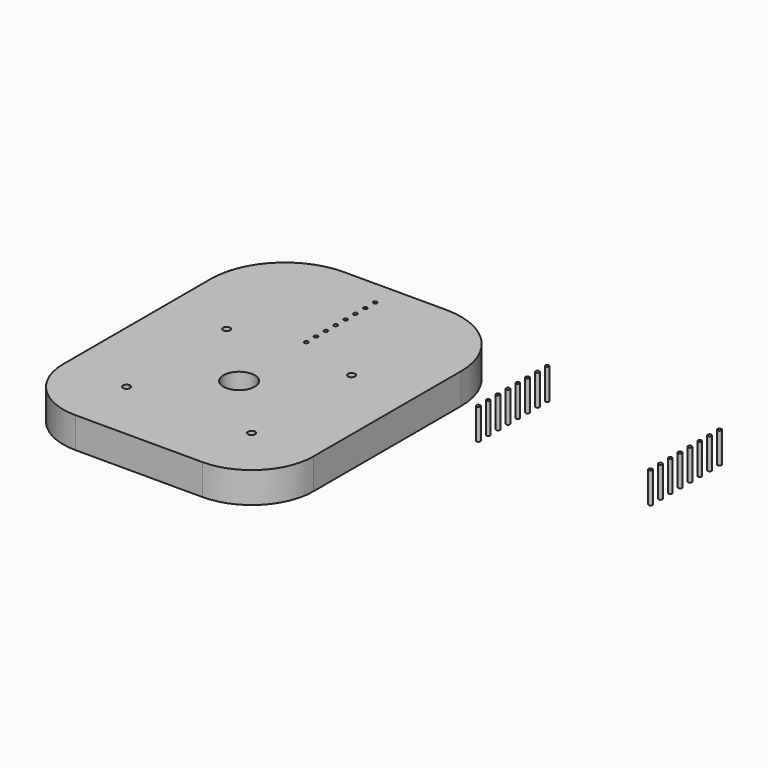
from build123d import *

# Parameters (mm, degrees)
F0_W     = 203.2
F0_H     = 260
F0_R     = 1.5375
F0_R_2   = 12.7
F1_DEPTH = 25
F2_R     = 60
F3_R     = 50


with BuildPart() as f1:
    # F0 (on Top) → F1 (new body)
    with BuildSketch(Plane.XY):
        with Locations((101.6, 130)):
            Rectangle(F0_W, F0_H)
        with BuildLine():
            ThreePointArc((50.8, 149.475), (48.731713, 154.468287), (53.725, 152.4))
            Line((53.725, 152.4), (149.475, 152.4))
            ThreePointArc((149.475, 152.4), (152.4, 155.325), (155.325, 152.4))
            ThreePointArc((155.325, 152.4), (154.468287, 150.331713), (152.4, 149.475))
            Line((152.4, 149.475), (152.4, 53.725))
            ThreePointArc((152.4, 53.725), (154.468287, 52.868287), (155.325, 50.8))
            ThreePointArc((155.325, 50.8), (152.4, 47.875), (149.475, 50.8))
            Line((149.475, 50.8), (53.725, 50.8))
            ThreePointArc((53.725, 50.8), (48.731713, 48.731713), (50.8, 53.725))
            Line((50.8, 53.725), (50.8, 149.475))
        make_face(mode=Mode.SUBTRACT)
        with Locations((101.6, 169.775)):
            Circle(F0_R, mode=Mode.SUBTRACT)
        with Locations((101.6, 179.775)):
            Circle(F0_R, mode=Mode.SUBTRACT)
        with Locations((101.6, 189.775)):
            Circle(F0_R, mode=Mode.SUBTRACT)
        with Locations((101.6, 199.775)):
            Circle(F0_R, mode=Mode.SUBTRACT)
        with Locations((101.6, 209.775)):
            Circle(F0_R, mode=Mode.SUBTRACT)
        with Locations((101.6, 219.775)):
            Circle(F0_R, mode=Mode.SUBTRACT)
        with Locations((101.6, 229.775)):
            Circle(F0_R, mode=Mode.SUBTRACT)
        with Locations((101.6, 239.775)):
            Circle(F0_R, mode=Mode.SUBTRACT)
        with Locations((241.5, 239.775)):
            Circle(F0_R)
        with Locations((241.5, 229.775)):
            Circle(F0_R)
        with Locations((241.5, 219.775)):
            Circle(F0_R)
        with Locations((241.5, 209.775)):
            Circle(F0_R)
        with Locations((241.5, 199.775)):
            Circle(F0_R)
        with Locations((241.5, 189.775)):
            Circle(F0_R)
        with Locations((241.5, 179.775)):
            Circle(F0_R)
        with Locations((241.5, 169.775)):
            Circle(F0_R)
        with Locations((381.4, 239.775)):
            Circle(F0_R)
        with Locations((381.4, 229.775)):
            Circle(F0_R)
        with Locations((381.4, 219.775)):
            Circle(F0_R)
        with Locations((381.4, 209.775)):
            Circle(F0_R)
        with Locations((381.4, 199.775)):
            Circle(F0_R)
        with Locations((381.4, 189.775)):
            Circle(F0_R)
        with Locations((381.4, 179.775)):
            Circle(F0_R)
        with Locations((381.4, 169.775)):
            Circle(F0_R)
        with BuildLine():
            Line((149.475, 152.4), (53.725, 152.4))
            ThreePointArc((53.725, 152.4), (52.868287, 150.331713), (50.8, 149.475))
            Line((50.8, 149.475), (50.8, 53.725))
            ThreePointArc((50.8, 53.725), (52.868287, 52.868287), (53.725, 50.8))
            Line((53.725, 50.8), (149.475, 50.8))
            ThreePointArc((149.475, 50.8), (150.331713, 52.868287), (152.4, 53.725))
            Line((152.4, 53.725), (152.4, 149.475))
            ThreePointArc((152.4, 149.475), (150.331713, 150.331713), (149.475, 152.4))
        make_face()
        with Locations((101.6, 101.6)):
            Circle(F0_R_2, mode=Mode.SUBTRACT)
    extrude(amount=F1_DEPTH)

    # F2
    f2_edges = [f1.edges().sort_by_distance(p)[0] for p in [
        (203.2, 260, 12.5),
        (0, 260, 12.5),
    ]]
    fillet(f2_edges, radius=F2_R)

    # F3
    f3_edges = [f1.edges().sort_by_distance(p)[0] for p in [
        (203.2, 0, 12.5),
        (0, 0, 12.5),
    ]]
    fillet(f3_edges, radius=F3_R)


solid = f1.part
